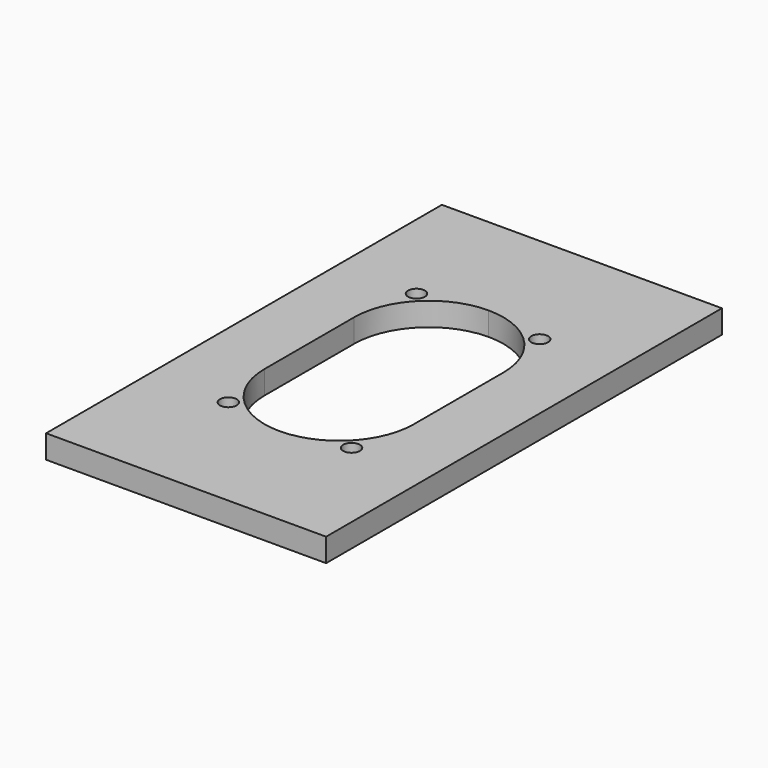
from build123d import *

# Parameters (mm, degrees)
F0_W     = 76.2
F0_H     = 134.62
F0_R     = 2.286
F1_DEPTH = 6.35


with BuildPart() as f1:
    # F0 (on Top) → F1 (new body)
    with BuildSketch(Plane.XY):
        Rectangle(F0_W, F0_H)
        Polygon((0, 35.56), (20.32, 35.56), (20.32, 15.24), (20.32, -15.24), (20.32, -35.56), (0, -35.56), (-20.32, -35.56), (-20.32, -15.24), (-20.32, 15.24), (-20.32, 35.56), align=None, mode=Mode.SUBTRACT)
        with BuildLine():
            ThreePointArc((0, -35.56), (-14.36841, -29.60841), (-20.32, -15.24))
            Line((-20.32, -15.24), (-20.32, -35.56))
            Line((-20.32, -35.56), (0, -35.56))
        make_face()
        with Locations((-16.764, -32.004)):
            Circle(F0_R, mode=Mode.SUBTRACT)
        with BuildLine():
            Line((20.32, -35.56), (20.32, -15.24))
            ThreePointArc((20.32, -15.24), (14.36841, -29.60841), (0, -35.56))
            Line((0, -35.56), (20.32, -35.56))
        make_face()
        with Locations((16.764, -32.004)):
            Circle(F0_R, mode=Mode.SUBTRACT)
        with BuildLine():
            ThreePointArc((-20.32, 15.24), (-14.36841, 29.60841), (0, 35.56))
            Line((0, 35.56), (-20.32, 35.56))
            Line((-20.32, 35.56), (-20.32, 15.24))
        make_face()
        with Locations((-16.764, 32.004)):
            Circle(F0_R, mode=Mode.SUBTRACT)
        with BuildLine():
            Line((20.32, 15.24), (20.32, 35.56))
            Line((20.32, 35.56), (0, 35.56))
            ThreePointArc((0, 35.56), (14.36841, 29.60841), (20.32, 15.24))
        make_face()
        with Locations((16.764, 32.004)):
            Circle(F0_R, mode=Mode.SUBTRACT)
    extrude(amount=F1_DEPTH)


solid = f1.part
